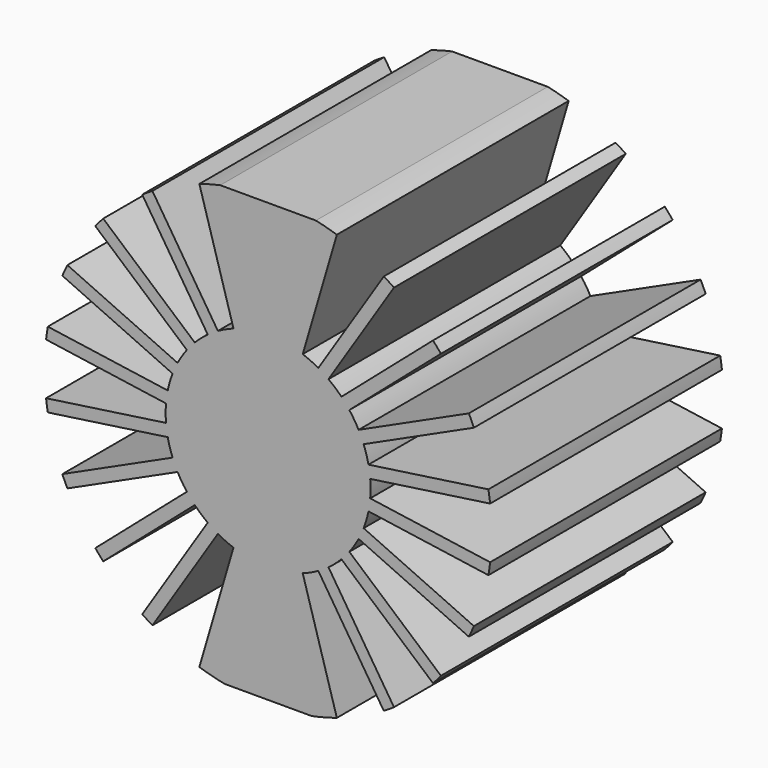
from build123d import *

# Parameters (mm, degrees)
F1_DEPTH = 14


with BuildPart() as f1:
    # F0 (on Front) → F1 (new body)
    with BuildSketch(Plane.XZ):
        with BuildLine():
            Line((-2.425778, 4.31487), (-5.591055, 9.240136))
            ThreePointArc((-5.591055, 9.240136), (-5.838921, 9.085538), (-6.082515, 8.924293))
            Line((-6.082515, 8.924293), (-2.917239, 3.999027))
            ThreePointArc((-2.917239, 3.999027), (-3.241561, 3.74096), (-3.543157, 3.456666))
            Line((-3.543157, 3.456666), (-7.967825, 7.290663))
            ThreePointArc((-7.967825, 7.290663), (-8.162095, 7.072496), (-8.350394, 6.849154))
            Line((-8.350394, 6.849154), (-3.925726, 3.015157))
            ThreePointArc((-3.925726, 3.015157), (-4.164205, 2.676172), (-4.373489, 2.318424))
            Line((-4.373489, 2.318424), (-9.699089, 4.750544))
            ThreePointArc((-9.699089, 4.750544), (-9.824026, 4.486482), (-9.941774, 4.219137))
            Line((-9.941774, 4.219137), (-4.616175, 1.787017))
            ThreePointArc((-4.616175, 1.787017), (-4.74949, 1.394576), (-4.849508, 0.992358))
            Line((-4.849508, 0.992358), (-10.644591, 1.825565))
            ThreePointArc((-10.644591, 1.825565), (-10.690072, 1.537), (-10.727731, 1.247311))
            Line((-10.727731, 1.247311), (-4.932648, 0.414104))
            ThreePointArc((-4.932648, 0.414104), (-4.95, 0), (-4.932648, -0.414104))
            Line((-4.932648, -0.414104), (-10.727731, -1.247311))
            ThreePointArc((-10.727731, -1.247311), (-10.690072, -1.537), (-10.644591, -1.825565))
            Line((-10.644591, -1.825565), (-4.849508, -0.992358))
            ThreePointArc((-4.849508, -0.992358), (-4.74949, -1.394576), (-4.616175, -1.787017))
            Line((-4.616175, -1.787017), (-9.941774, -4.219137))
            ThreePointArc((-9.941774, -4.219137), (-9.824026, -4.486482), (-9.699089, -4.750544))
            Line((-9.699089, -4.750544), (-4.373489, -2.318424))
            ThreePointArc((-4.373489, -2.318424), (-4.164205, -2.676172), (-3.925726, -3.015157))
            Line((-3.925726, -3.015157), (-8.350394, -6.849154))
            ThreePointArc((-8.350394, -6.849154), (-8.162095, -7.072496), (-7.967825, -7.290663))
            Line((-7.967825, -7.290663), (-3.543157, -3.456666))
            ThreePointArc((-3.543157, -3.456666), (-3.241561, -3.74096), (-2.917239, -3.999027))
            Line((-2.917239, -3.999027), (-6.082515, -8.924293))
            ThreePointArc((-6.082515, -8.924293), (-5.838921, -9.085538), (-5.591055, -9.240136))
            Line((-5.591055, -9.240136), (-2.425778, -4.31487))
            ThreePointArc((-2.425778, -4.31487), (-2.056304, -4.502678), (-1.672414, -4.65892))
            Line((-1.672414, -4.65892), (-3.321866, -10.276439))
            ThreePointArc((-3.321866, -10.276439), (-2.71605, -10.452898), (-2.100962, -10.593675))
            Line((-2.100962, -10.593675), (2.100962, -10.593675))
            ThreePointArc((2.100962, -10.593675), (2.71605, -10.452898), (3.321866, -10.276439))
            Line((3.321866, -10.276439), (1.672414, -4.65892))
            ThreePointArc((1.672414, -4.65892), (2.056304, -4.502678), (2.425778, -4.31487))
            Line((2.425778, -4.31487), (5.591055, -9.240136))
            ThreePointArc((5.591055, -9.240136), (5.838921, -9.085538), (6.082515, -8.924293))
            Line((6.082515, -8.924293), (2.917239, -3.999027))
            ThreePointArc((2.917239, -3.999027), (3.241561, -3.74096), (3.543157, -3.456666))
            Line((3.543157, -3.456666), (7.967825, -7.290663))
            ThreePointArc((7.967825, -7.290663), (8.162095, -7.072496), (8.350394, -6.849154))
            Line((8.350394, -6.849154), (3.925726, -3.015157))
            ThreePointArc((3.925726, -3.015157), (4.164205, -2.676172), (4.373489, -2.318424))
            Line((4.373489, -2.318424), (9.699089, -4.750544))
            ThreePointArc((9.699089, -4.750544), (9.824026, -4.486482), (9.941774, -4.219137))
            Line((9.941774, -4.219137), (4.616175, -1.787017))
            ThreePointArc((4.616175, -1.787017), (4.74949, -1.394576), (4.849508, -0.992358))
            Line((4.849508, -0.992358), (10.644591, -1.825565))
            ThreePointArc((10.644591, -1.825565), (10.690072, -1.537), (10.727731, -1.247311))
            Line((10.727731, -1.247311), (4.932648, -0.414104))
            ThreePointArc((4.932648, -0.414104), (4.95, 0), (4.932648, 0.414104))
            Line((4.932648, 0.414104), (10.727731, 1.247311))
            ThreePointArc((10.727731, 1.247311), (10.690072, 1.537), (10.644591, 1.825565))
            Line((10.644591, 1.825565), (4.849508, 0.992358))
            ThreePointArc((4.849508, 0.992358), (4.74949, 1.394576), (4.616175, 1.787017))
            Line((4.616175, 1.787017), (9.941774, 4.219137))
            ThreePointArc((9.941774, 4.219137), (9.824026, 4.486482), (9.699089, 4.750544))
            Line((9.699089, 4.750544), (4.373489, 2.318424))
            ThreePointArc((4.373489, 2.318424), (4.164205, 2.676172), (3.925726, 3.015157))
            Line((3.925726, 3.015157), (8.350394, 6.849154))
            ThreePointArc((8.350394, 6.849154), (8.162095, 7.072496), (7.967825, 7.290663))
            Line((7.967825, 7.290663), (3.543157, 3.456666))
            ThreePointArc((3.543157, 3.456666), (3.241561, 3.74096), (2.917239, 3.999027))
            Line((2.917239, 3.999027), (6.082515, 8.924293))
            ThreePointArc((6.082515, 8.924293), (5.838921, 9.085538), (5.591055, 9.240136))
            Line((5.591055, 9.240136), (2.425778, 4.31487))
            ThreePointArc((2.425778, 4.31487), (2.056304, 4.502678), (1.672414, 4.65892))
            Line((1.672414, 4.65892), (3.321866, 10.276439))
            ThreePointArc((3.321866, 10.276439), (2.819405, 10.425496), (2.310303, 10.55))
            Line((2.310303, 10.55), (0, 10.55))
            Line((0, 10.55), (-2.310303, 10.55))
            ThreePointArc((-2.310303, 10.55), (-2.819405, 10.425496), (-3.321866, 10.276439))
            Line((-3.321866, 10.276439), (-1.672414, 4.65892))
            ThreePointArc((-1.672414, 4.65892), (-2.056304, 4.502678), (-2.425778, 4.31487))
        make_face()
    extrude(amount=F1_DEPTH)


solid = f1.part
